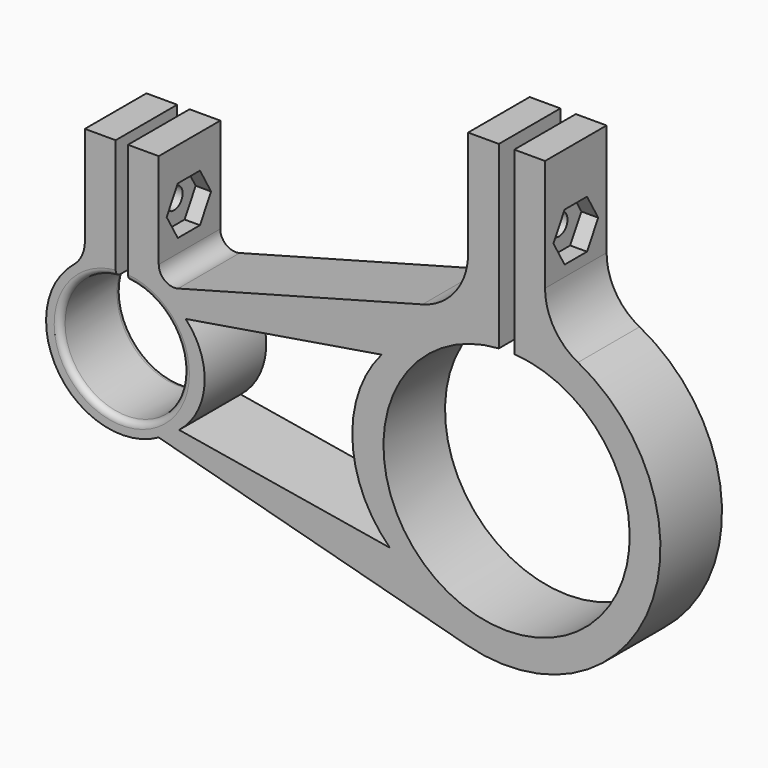
from build123d import *

# Parameters (mm, degrees)
F1_DEPTH  = 12.7
F3_DEPTH  = 2.778125
F5_D      = 3.5052
F5_DEPTH  = 19.05
F7_DEPTH  = 2.54
F8_R      = 10.16
F9_R      = 10.16
F10_R     = 2.54
F11_R     = 5.08
F13_R     = 1
F14_R     = 1
F16_D     = 3.5052
F16_DEPTH = 12.7
F17_DEPTH = 25


with BuildPart() as f1:
    # F0 (on Front) → F1 (new body)
    with BuildSketch(Plane.XZ):
        with BuildLine():
            Line((-6.35, 49.993444), (-6.35, 24.593444))
            Line((-6.35, 24.593444), (-6.798163, 24.473352))
            Line((-6.798163, 24.473352), (-57.404, 10.912781))
            Line((-57.404, 10.912781), (-57.404, 29.962781))
            Line((-57.404, 29.962781), (-62.484, 29.962781))
            Line((-62.484, 29.962781), (-62.484, 12.458641))
            Line((-62.484, 12.458641), (-62.484, 10.109072))
            ThreePointArc((-62.484, 10.109072), (-63.5, -10.16), (-64.516, 10.109072))
            Line((-64.516, 10.109072), (-64.516, 12.458641))
            Line((-64.516, 12.458641), (-64.516, 29.962781))
            Line((-64.516, 29.962781), (-69.596, 29.962781))
            Line((-69.596, 29.962781), (-69.596, 10.912781))
            ThreePointArc((-69.596, 10.912781), (-74.412781, -6.096), (-57.404, -10.912781))
            Line((-57.404, -10.912781), (-6.57485, -24.534289))
            ThreePointArc((-6.57485, -24.534289), (24.564124, -6.462493), (6.35, 24.593444))
            Line((6.35, 24.593444), (6.35, 49.993444))
            Line((6.35, 49.993444), (1.27, 49.993444))
            Line((1.27, 49.993444), (1.27, 25.36823))
            Line((1.27, 25.36823), (1.27, 20.280274))
            ThreePointArc((1.27, 20.280274), (0, -20.32), (-1.27, 20.280274))
            Line((-1.27, 20.280274), (-1.27, 25.36823))
            Line((-1.27, 25.36823), (-1.27, 49.993444))
            Line((-1.27, 49.993444), (-6.35, 49.993444))
        make_face()
    extrude(amount=F1_DEPTH)

    # F2 (on face) → F3 (cut)
    with BuildSketch(Plane.YZ.offset(6.35)):
        Polygon((-8.65969, 33.292944), (-4.04031, 33.292944), (-1.73062, 37.293444), (-4.04031, 41.293944), (-8.65969, 41.293944), (-10.96938, 37.293444), align=None)
    extrude(amount=-F3_DEPTH, mode=Mode.SUBTRACT)

    # F5
    with Locations(Plane.YZ.offset(3.571875)):
        with Locations((-6.35, 37.293444)):
            Hole(F5_D / 2, depth=F5_DEPTH)

    # F6 (on face) → F7 (cut)
    with BuildSketch(Plane.YZ.offset(-57.404)):
        Polygon((-11.067651, 20.437781), (-8.776292, 16.469031), (-4.193574, 16.469031), (-1.902215, 20.437781), (-4.193574, 24.406531), (-8.776292, 24.406531), align=None)
    extrude(amount=-F7_DEPTH, mode=Mode.SUBTRACT)

    # F8
    f8_edges = [f1.edges().sort_by_distance(p)[0] for p in [
        (-6.35, -6.35, 24.593444),
    ]]
    fillet(f8_edges, radius=F8_R)

    # F9
    f9_edges = [f1.edges().sort_by_distance(p)[0] for p in [
        (6.35, -6.35, 24.593444),
    ]]
    fillet(f9_edges, radius=F9_R)

    # F10
    f10_edges = [f1.edges().sort_by_distance(p)[0] for p in [
        (-57.404, -6.35, 10.912781),
    ]]
    fillet(f10_edges, radius=F10_R)

    # F11
    f11_edges = [f1.edges().sort_by_distance(p)[0] for p in [
        (-69.596, -6.35, 10.912781),
    ]]
    fillet(f11_edges, radius=F11_R)

    # F13
    f13_edges = [f1.edges().sort_by_distance(p)[0] for p in [
        (-63.5, -12.7, -10.16),
    ]]
    fillet(f13_edges, radius=F13_R)

    # F14
    f14_edges = [f1.edges().sort_by_distance(p)[0] for p in [
        (-63.5, 0, -10.16),
    ]]
    fillet(f14_edges, radius=F14_R)

    # F16
    with Locations(Plane.YZ.offset(-59.944)):
        with Locations((-6.35, 20.437781)):
            Hole(F16_D / 2, depth=F16_DEPTH)

    # F12 (on face) → F17 (cut)
    with BuildSketch(Plane.XZ.offset(12.7)):
        with BuildLine():
            ThreePointArc((-52.974038, 7.756792), (-49.845473, -0.719281), (-54.042015, -8.720579))
            Line((-54.042015, -8.720579), (-19.25646, -14.533902))
            ThreePointArc((-19.25646, -14.533902), (-25.435108, -0.999564), (-20.629572, 13.080949))
            Line((-20.629572, 13.080949), (-52.974038, 7.756792))
        make_face()
    extrude(amount=-F17_DEPTH, mode=Mode.SUBTRACT)


solid = f1.part
